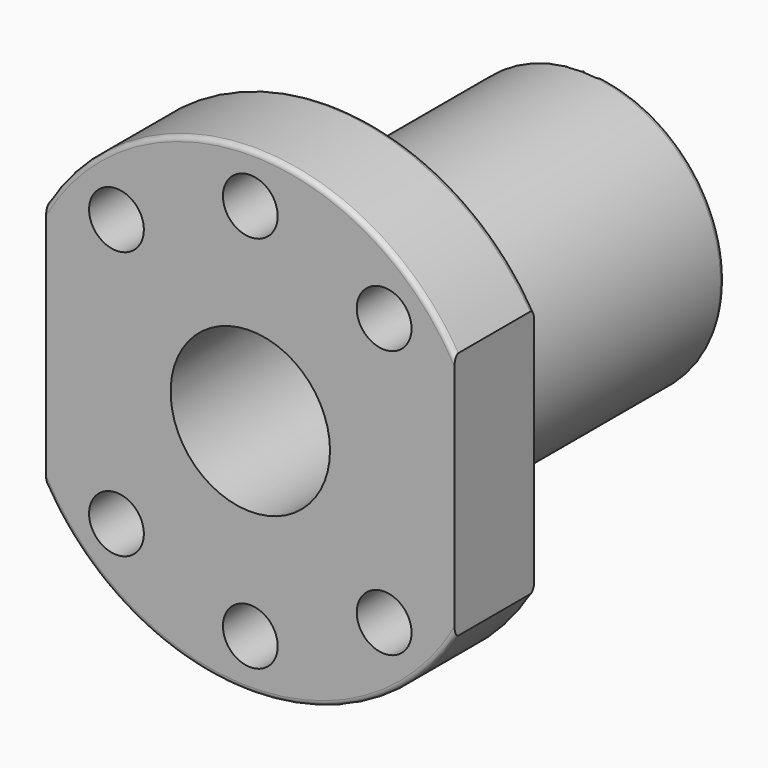
from build123d import *

# Parameters (mm, degrees)
F1_DEPTH = 10
F2_R     = 2.75
F3_DEPTH = 10.001
F4_R     = 14
F5_DEPTH = 32
F6_R     = 8
F7_DEPTH = 42.001
F8_R     = 0.5


with BuildPart() as f1:
    # F0 (on Front) → F1 (new body)
    with BuildSketch(Plane.XZ):
        with BuildLine():
            Line((-20.5, 12.479984), (-20.5, -12.479984))
            ThreePointArc((-20.5, -12.479984), (0, -24), (20.5, -12.479984))
            Line((20.5, -12.479984), (20.5, 12.479984))
            ThreePointArc((20.5, 12.479984), (0, 24), (-20.5, 12.479984))
        make_face()
    extrude(amount=F1_DEPTH)

    # F2 (on face) → F3 (cut, through all)
    with BuildSketch(Plane.XZ.offset(10)):
        with Locations((0, 19)):
            Circle(F2_R)
        with Locations((-13.435029, 13.435029)):
            Circle(F2_R)
        with Locations((13.435029, -13.435029)):
            Circle(F2_R)
        with Locations((13.435029, 13.435029)):
            Circle(F2_R)
        with Locations((-13.435029, -13.435029)):
            Circle(F2_R)
        with Locations((0, -19)):
            Circle(F2_R)
    extrude(amount=-F3_DEPTH, mode=Mode.SUBTRACT)

    # F4 (on face) → F5 (join)
    with BuildSketch(Plane(origin=(0, 0, 0), x_dir=(-1, 0, 0), z_dir=(0, 1, 0))):
        Circle(F4_R)
    extrude(amount=F5_DEPTH)

    # F6 (on face) → F7 (cut, through all)
    with BuildSketch(Plane.XZ.offset(10)):
        Circle(F6_R)
    extrude(amount=-F7_DEPTH, mode=Mode.SUBTRACT)

    # F8
    f8_edges = [f1.edges().sort_by_distance(p)[0] for p in [
        (14, 32, 0),
        (0, 0, 24),
        (0, 0, -24),
        (0, -10, -24),
        (0, -10, 24),
    ]]
    fillet(f8_edges, radius=F8_R)


solid = f1.part
